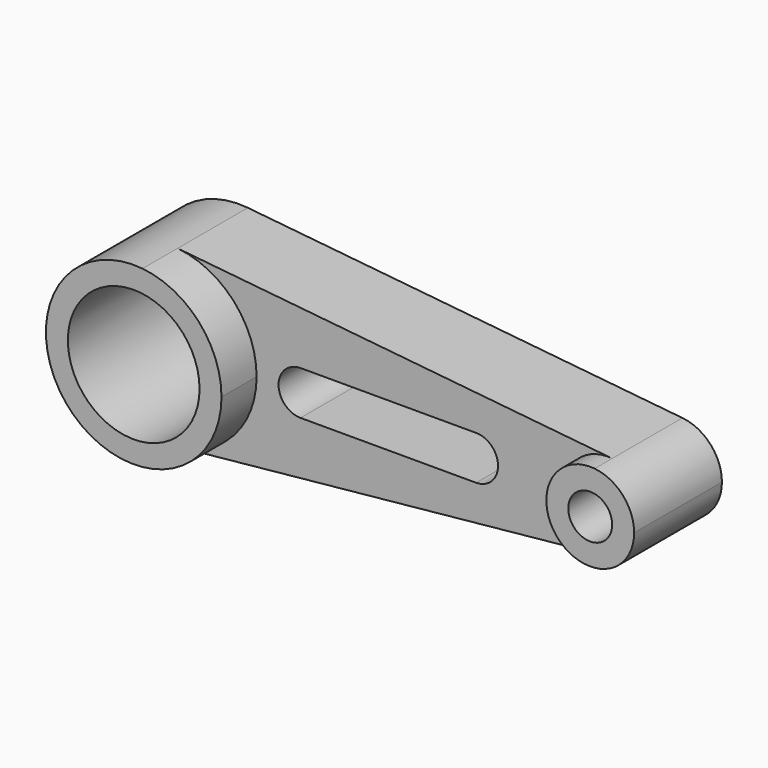
from build123d import *

# Parameters (mm, degrees)
F0_R     = 19.05
F1_DEPTH = 38.1
F2_DEPTH = 25.4
F0_R_2   = 6.35
F3_DEPTH = 31.75


with BuildPart() as f1:
    # F0 (on Front) → F1 (new body)
    with BuildSketch(Plane.XZ):
        with BuildLine():
            ThreePointArc((2.54, -25.272681), (18.837144, -17.038838), (25.4, 0))
            ThreePointArc((25.4, 0), (18.837144, 17.038838), (2.54, 25.272681))
            ThreePointArc((2.54, 25.272681), (-25.4, 0), (2.54, -25.272681))
        make_face()
        Circle(F0_R, mode=Mode.SUBTRACT)
    extrude(amount=F1_DEPTH)


with BuildPart() as f2:
    # F0 (on Front) → F2 (new body)
    with BuildSketch(Plane.XZ):
        with BuildLine():
            ThreePointArc((2.54, 25.272681), (18.837144, 17.038838), (25.4, 0))
            ThreePointArc((25.4, 0), (18.837144, -17.038838), (2.54, -25.272681))
            Line((2.54, -25.272681), (128.27, -12.63634))
            ThreePointArc((128.27, -12.63634), (114.3, 0), (128.27, 12.63634))
            Line((128.27, 12.63634), (2.54, 25.272681))
        make_face()
        with BuildLine():
            ThreePointArc((88.9, 6.35), (95.25, 0), (88.9, -6.35))
            Line((88.9, -6.35), (38.1, -6.35))
            ThreePointArc((38.1, -6.35), (31.75, 0), (38.1, 6.35))
            Line((38.1, 6.35), (88.9, 6.35))
        make_face(mode=Mode.SUBTRACT)
    extrude(amount=F2_DEPTH)


with BuildPart() as f3:
    # F0 (on Front) → F3 (new body)
    with BuildSketch(Plane.XZ):
        with BuildLine():
            ThreePointArc((139.7, 0), (136.418572, 8.519419), (128.27, 12.63634))
            ThreePointArc((128.27, 12.63634), (114.3, 0), (128.27, -12.63634))
            ThreePointArc((128.27, -12.63634), (136.418572, -8.519419), (139.7, 0))
        make_face()
        with Locations((127, 0)):
            Circle(F0_R_2, mode=Mode.SUBTRACT)
    extrude(amount=F3_DEPTH)


solid = Compound([f1.part, f2.part, f3.part])
